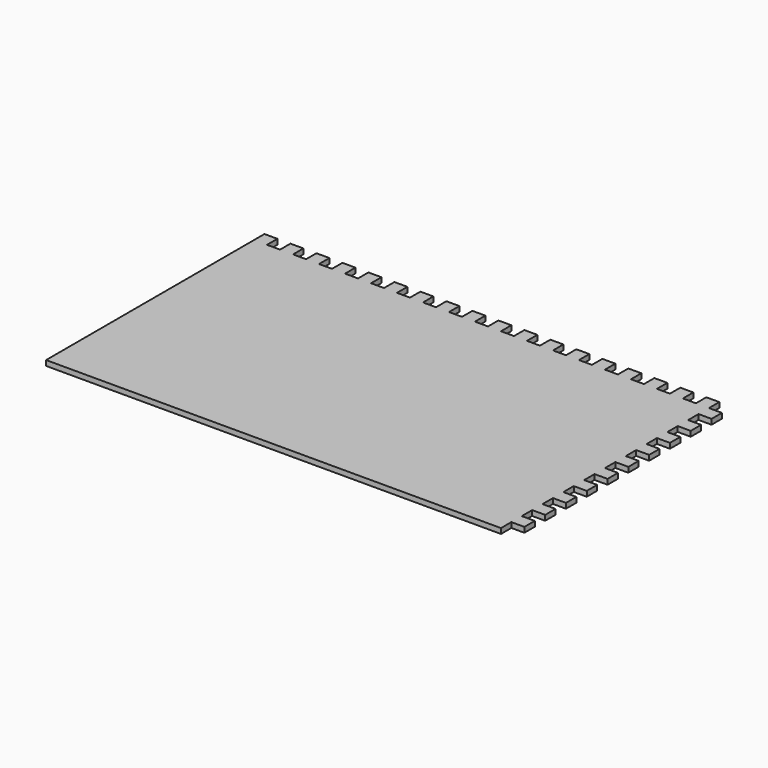
from build123d import *

# Parameters (mm, degrees)
F0_W     = 5
F0_H     = 5
F1_DEPTH = 2


with BuildPart() as f1:
    # F0 (on Top) → F1 (new body)
    with BuildSketch(Plane.XY):
        Polygon((-180, -3.5), (-180, -103.5), (-5, -103.5), (-5, -98.5), (-5, -93.5), (-5, -88.5), (-5, -83.5), (-5, -78.5), (-5, -73.5), (-5, -68.5), (-5, -63.5), (-5, -58.5), (-5, -53.5), (-5, -48.5), (-5, -43.5), (-5, -38.5), (-5, -33.5), (-5, -28.5), (-5, -23.5), (-5, -18.5), (-5, -13.5), (-5, -8.5), (-5, -3.5), (-5, 1.5), (-10, 1.5), (-10, -3.5), (-15, -3.5), (-15, 1.5), (-20, 1.5), (-20, -3.5), (-25, -3.5), (-25, 1.5), (-30, 1.5), (-30, -3.5), (-35, -3.5), (-35, 1.5), (-40, 1.5), (-40, -3.5), (-45, -3.5), (-45, 1.5), (-50, 1.5), (-50, -3.5), (-55, -3.5), (-55, 1.5), (-60, 1.5), (-60, -3.5), (-65, -3.5), (-65, 1.5), (-70, 1.5), (-70, -3.5), (-75, -3.5), (-75, 1.5), (-80, 1.5), (-80, -3.5), (-85, -3.5), (-85, 1.5), (-90, 1.5), (-90, -3.5), (-95, -3.5), (-95, 1.5), (-100, 1.5), (-100, -3.5), (-105, -3.5), (-105, 1.5), (-110, 1.5), (-110, -3.5), (-115, -3.5), (-115, 1.5), (-120, 1.5), (-120, -3.5), (-125, -3.5), (-125, 1.5), (-130, 1.5), (-130, -3.5), (-135, -3.5), (-135, 1.5), (-140, 1.5), (-140, -3.5), (-145, -3.5), (-145, 1.5), (-150, 1.5), (-150, -3.5), (-155, -3.5), (-155, 1.5), (-160, 1.5), (-160, -3.5), (-165, -3.5), (-165, 1.5), (-170, 1.5), (-170, -3.5), (-175, -3.5), (-175, 1.5), (-180, 1.5), align=None)
        with Locations((-2.5, -96)):
            Rectangle(F0_W, F0_H)
        with Locations((-2.5, -86)):
            Rectangle(F0_W, F0_H)
        with Locations((-2.5, -76)):
            Rectangle(F0_W, F0_H)
        with Locations((-2.5, -66)):
            Rectangle(F0_W, F0_H)
        with Locations((-2.5, -56)):
            Rectangle(F0_W, F0_H)
        with Locations((-2.5, -46)):
            Rectangle(F0_W, F0_H)
        with Locations((-2.5, -36)):
            Rectangle(F0_W, F0_H)
        with Locations((-2.5, -26)):
            Rectangle(F0_W, F0_H)
        with Locations((-2.5, -16)):
            Rectangle(F0_W, F0_H)
        with Locations((-2.5, -6)):
            Rectangle(F0_W, F0_H)
    extrude(amount=F1_DEPTH)


solid = f1.part
